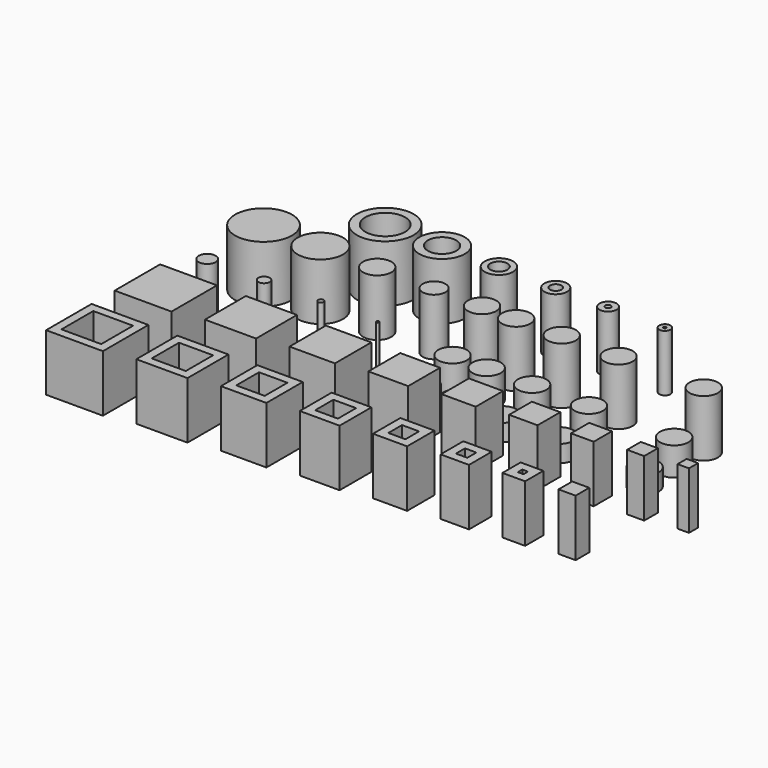
from build123d import *

# Parameters (mm, degrees)
F0_R      = 5
F1_DEPTH  = 10
F0_R_2    = 4
F0_R_3    = 2.5
F0_R_4    = 2
F0_R_5    = 1.5
F0_R_6    = 1
F0_R_7    = 0.5
F0_R_8    = 0.25
F2_R      = 2.5
F3_DEPTH  = 10
F4_R      = 2.5
F5_DEPTH  = 5
F6_R      = 2.5
F7_DEPTH  = 3
F8_W      = 10
F8_H      = 10
F9_DEPTH  = 10
F8_W_2    = 9
F8_H_2    = 9
F8_W_3    = 8
F8_H_3    = 8
F8_W_4    = 7
F8_H_4    = 7
F8_W_5    = 6
F8_H_5    = 6
F8_W_6    = 5
F8_H_6    = 5
F8_W_7    = 4
F8_H_7    = 4
F8_W_8    = 3
F8_H_8    = 3
F8_W_9    = 2
F8_H_9    = 2
F10_W     = 9
F10_H     = 9
F11_DEPTH = 10
F10_W_2   = 10
F10_H_2   = 10
F10_W_3   = 4
F10_H_3   = 4
F10_W_4   = 6
F10_H_4   = 6
F10_W_5   = 7
F10_H_5   = 7
F10_W_6   = 8
F10_H_6   = 8
F10_W_7   = 5
F10_H_7   = 5
F10_W_8   = 3
F10_H_8   = 3
F12_W     = 6
F12_H     = 6
F12_W_2   = 4
F12_H_2   = 4
F12_W_3   = 3
F12_H_3   = 3
F12_W_4   = 2
F12_H_4   = 2
F12_W_5   = 1
F12_H_5   = 1
F12_W_6   = 7
F12_H_6   = 7
F12_W_7   = 5
F12_H_7   = 5
F13_DEPTH = 10
F14_R     = 5
F15_DEPTH = 10
F14_R_2   = 4
F14_R_3   = 2.5
F14_R_4   = 2
F14_R_5   = 1.5
F14_R_6   = 1
F16_R     = 1.5
F16_R_2   = 1
F16_R_3   = 0.5
F16_R_4   = 0.25
F16_R_5   = 2.5
F16_R_6   = 3.5
F17_DEPTH = 10


with BuildPart() as f1:
    # F0 (on Top) → F1 (new body)
    with BuildSketch(Plane.XY):
        with Locations((-38.4500361979, 17.9998930544)):
            Circle(F0_R)
    extrude(amount=F1_DEPTH)


with BuildPart() as f1b:
    # F0 (on Top) → F1, piece 2 (new body)
    with BuildSketch(Plane.XY):
        with Locations((-28.4500361979, 17.9998930544)):
            Circle(F0_R_2)
    extrude(amount=F1_DEPTH)


with BuildPart() as f1c:
    # F0 (on Top) → F1, piece 3 (new body)
    with BuildSketch(Plane.XY):
        with Locations((-18.4500361979, 17.9998930544)):
            Circle(F0_R_3)
    extrude(amount=F1_DEPTH)


with BuildPart() as f1d:
    # F0 (on Top) → F1, piece 4 (new body)
    with BuildSketch(Plane.XY):
        with Locations((-8.4500361979, 17.9998930544)):
            Circle(F0_R_4)
    extrude(amount=F1_DEPTH)


with BuildPart() as f1e:
    # F0 (on Top) → F1, piece 5 (new body)
    with BuildSketch(Plane.XY):
        with Locations((-38.1977682621, 5.3023987784)):
            Circle(F0_R_5)
    extrude(amount=F1_DEPTH)


with BuildPart() as f1f:
    # F0 (on Top) → F1, piece 6 (new body)
    with BuildSketch(Plane.XY):
        with Locations((-28.1977682621, 5.3023987784)):
            Circle(F0_R_6)
    extrude(amount=F1_DEPTH)


with BuildPart() as f1g:
    # F0 (on Top) → F1, piece 7 (new body)
    with BuildSketch(Plane.XY):
        with Locations((-18.1977682621, 5.3023987784)):
            Circle(F0_R_7)
    extrude(amount=F1_DEPTH)


with BuildPart() as f1h:
    # F0 (on Top) → F1, piece 8 (new body)
    with BuildSketch(Plane.XY):
        with Locations((-8.1977682621, 5.3023987784)):
            Circle(F0_R_8)
    extrude(amount=F1_DEPTH)


with BuildPart() as f3:
    # F2 (on Top) → F3 (new body)
    with BuildSketch(Plane.XY):
        with Locations((0, 17.9998878)):
            Circle(F2_R)
    extrude(amount=F3_DEPTH)


with BuildPart() as f3b:
    # F2 (on Top) → F3, piece 2 (new body)
    with BuildSketch(Plane.XY):
        with Locations((6, 17.9998878)):
            Circle(F2_R)
    extrude(amount=F3_DEPTH)


with BuildPart() as f3c:
    # F2 (on Top) → F3, piece 3 (new body)
    with BuildSketch(Plane.XY):
        with Locations((14, 17.9998878)):
            Circle(F2_R)
    extrude(amount=F3_DEPTH)


with BuildPart() as f3d:
    # F2 (on Top) → F3, piece 4 (new body)
    with BuildSketch(Plane.XY):
        with Locations((24, 17.9998878)):
            Circle(F2_R)
    extrude(amount=F3_DEPTH)


with BuildPart() as f3e:
    # F2 (on Top) → F3, piece 5 (new body)
    with BuildSketch(Plane.XY):
        with Locations((39, 17.9998878)):
            Circle(F2_R)
    extrude(amount=F3_DEPTH)


with BuildPart() as f5:
    # F4 (on Top) → F5 (new body)
    with BuildSketch(Plane.XY):
        with Locations((6, 11.4998878)):
            Circle(F4_R)
    extrude(amount=F5_DEPTH)


with BuildPart() as f5b:
    # F4 (on Top) → F5, piece 2 (new body)
    with BuildSketch(Plane.XY):
        with Locations((0, 11.4998878)):
            Circle(F4_R)
    extrude(amount=F5_DEPTH)


with BuildPart() as f5c:
    # F4 (on Top) → F5, piece 3 (new body)
    with BuildSketch(Plane.XY):
        with Locations((39, 11.4998878)):
            Circle(F4_R)
    extrude(amount=F5_DEPTH)


with BuildPart() as f5d:
    # F4 (on Top) → F5, piece 4 (new body)
    with BuildSketch(Plane.XY):
        with Locations((24, 11.4998878)):
            Circle(F4_R)
    extrude(amount=F5_DEPTH)


with BuildPart() as f5e:
    # F4 (on Top) → F5, piece 5 (new body)
    with BuildSketch(Plane.XY):
        with Locations((14, 11.4998878)):
            Circle(F4_R)
    extrude(amount=F5_DEPTH)


with BuildPart() as f7:
    # F6 (on Top) → F7 (new body)
    with BuildSketch(Plane.XY):
        with Locations((6, 4.9998878)):
            Circle(F6_R)
    extrude(amount=F7_DEPTH)


with BuildPart() as f7b:
    # F6 (on Top) → F7, piece 2 (new body)
    with BuildSketch(Plane.XY):
        with Locations((0, 4.9998878)):
            Circle(F6_R)
    extrude(amount=F7_DEPTH)


with BuildPart() as f7c:
    # F6 (on Top) → F7, piece 3 (new body)
    with BuildSketch(Plane.XY):
        with Locations((39, 4.9998878)):
            Circle(F6_R)
    extrude(amount=F7_DEPTH)


with BuildPart() as f7d:
    # F6 (on Top) → F7, piece 4 (new body)
    with BuildSketch(Plane.XY):
        with Locations((24, 4.9998878)):
            Circle(F6_R)
    extrude(amount=F7_DEPTH)


with BuildPart() as f7e:
    # F6 (on Top) → F7, piece 5 (new body)
    with BuildSketch(Plane.XY):
        with Locations((14, 4.9998878)):
            Circle(F6_R)
    extrude(amount=F7_DEPTH)


with BuildPart() as f9:
    # F8 (on Top) → F9 (new body)
    with BuildSketch(Plane.XY):
        with Locations((-37.24, -5)):
            Rectangle(F8_W, F8_H)
    extrude(amount=F9_DEPTH)


with BuildPart() as f9b:
    # F8 (on Top) → F9, piece 2 (new body)
    with BuildSketch(Plane.XY):
        with Locations((-22.66, -4.5)):
            Rectangle(F8_W_2, F8_H_2)
    extrude(amount=F9_DEPTH)


with BuildPart() as f9c:
    # F8 (on Top) → F9, piece 3 (new body)
    with BuildSketch(Plane.XY):
        with Locations((-9.08, -4)):
            Rectangle(F8_W_3, F8_H_3)
    extrude(amount=F9_DEPTH)


with BuildPart() as f9d:
    # F8 (on Top) → F9, piece 4 (new body)
    with BuildSketch(Plane.XY):
        with Locations((3.5, -3.5)):
            Rectangle(F8_W_4, F8_H_4)
    extrude(amount=F9_DEPTH)


with BuildPart() as f9e:
    # F8 (on Top) → F9, piece 5 (new body)
    with BuildSketch(Plane.XY):
        with Locations((15.08, -3)):
            Rectangle(F8_W_5, F8_H_5)
    extrude(amount=F9_DEPTH)


with BuildPart() as f9f:
    # F8 (on Top) → F9, piece 6 (new body)
    with BuildSketch(Plane.XY):
        with Locations((25.66, -2.5)):
            Rectangle(F8_W_6, F8_H_6)
    extrude(amount=F9_DEPTH)


with BuildPart() as f9g:
    # F8 (on Top) → F9, piece 7 (new body)
    with BuildSketch(Plane.XY):
        with Locations((35.24, -2)):
            Rectangle(F8_W_7, F8_H_7)
    extrude(amount=F9_DEPTH)


with BuildPart() as f9h:
    # F8 (on Top) → F9, piece 8 (new body)
    with BuildSketch(Plane.XY):
        with Locations((43.82, -1.5)):
            Rectangle(F8_W_8, F8_H_8)
    extrude(amount=F9_DEPTH)


with BuildPart() as f9i:
    # F8 (on Top) → F9, piece 9 (new body)
    with BuildSketch(Plane.XY):
        with Locations((51.4, -1)):
            Rectangle(F8_W_9, F8_H_9)
    extrude(amount=F9_DEPTH)


with BuildPart() as f11:
    # F10 (on Top) → F11 (new body)
    with BuildSketch(Plane.XY):
        with Locations((-22.66, -19.58)):
            Rectangle(F10_W, F10_H)
    extrude(amount=F11_DEPTH)


with BuildPart() as f11b:
    # F10 (on Top) → F11, piece 2 (new body)
    with BuildSketch(Plane.XY):
        with Locations((-37.24, -20.08)):
            Rectangle(F10_W_2, F10_H_2)
    extrude(amount=F11_DEPTH)


with BuildPart() as f11c:
    # F10 (on Top) → F11, piece 3 (new body)
    with BuildSketch(Plane.XY):
        with Locations((35.24, -17.08)):
            Rectangle(F10_W_3, F10_H_3)
    extrude(amount=F11_DEPTH)


with BuildPart() as f11d:
    # F10 (on Top) → F11, piece 4 (new body)
    with BuildSketch(Plane.XY):
        with Locations((15.08, -18.08)):
            Rectangle(F10_W_4, F10_H_4)
    extrude(amount=F11_DEPTH)


with BuildPart() as f11e:
    # F10 (on Top) → F11, piece 5 (new body)
    with BuildSketch(Plane.XY):
        with Locations((3.5, -18.58)):
            Rectangle(F10_W_5, F10_H_5)
    extrude(amount=F11_DEPTH)


with BuildPart() as f11f:
    # F10 (on Top) → F11, piece 6 (new body)
    with BuildSketch(Plane.XY):
        with Locations((-9.08, -19.08)):
            Rectangle(F10_W_6, F10_H_6)
    extrude(amount=F11_DEPTH)


with BuildPart() as f11g:
    # F10 (on Top) → F11, piece 7 (new body)
    with BuildSketch(Plane.XY):
        with Locations((25.66, -17.58)):
            Rectangle(F10_W_7, F10_H_7)
    extrude(amount=F11_DEPTH)


with BuildPart() as f11h:
    # F10 (on Top) → F11, piece 8 (new body)
    with BuildSketch(Plane.XY):
        with Locations((43.82, -16.58)):
            Rectangle(F10_W_8, F10_H_8)
    extrude(amount=F11_DEPTH)


with BuildPart() as f13_tool:
    # F12 (on face) → F13 (new body)
    with BuildSketch(Plane.XY.offset(10)):
        with Locations((-22.66, -19.58)):
            Rectangle(F12_W, F12_H)
        with Locations((3.5, -18.58)):
            Rectangle(F12_W_2, F12_H_2)
        with Locations((15.08, -18.08)):
            Rectangle(F12_W_3, F12_H_3)
        with Locations((25.66, -17.58)):
            Rectangle(F12_W_4, F12_H_4)
        with Locations((35.24, -17.08)):
            Rectangle(F12_W_5, F12_H_5)
        with Locations((-37.24, -20.08)):
            Rectangle(F12_W_6, F12_H_6)
        with Locations((-9.08, -19.08)):
            Rectangle(F12_W_7, F12_H_7)
    extrude(amount=-F13_DEPTH)


with BuildPart() as f11_1:
    add(f11.part)

    # F13: cut by f13_tool
    add(f13_tool.part, mode=Mode.SUBTRACT)


with BuildPart() as f11b_1:
    add(f11b.part)

    # F13: cut by f13_tool
    add(f13_tool.part, mode=Mode.SUBTRACT)


with BuildPart() as f11c_1:
    add(f11c.part)

    # F13: cut by f13_tool
    add(f13_tool.part, mode=Mode.SUBTRACT)


with BuildPart() as f11d_1:
    add(f11d.part)

    # F13: cut by f13_tool
    add(f13_tool.part, mode=Mode.SUBTRACT)


with BuildPart() as f11e_1:
    add(f11e.part)

    # F13: cut by f13_tool
    add(f13_tool.part, mode=Mode.SUBTRACT)


with BuildPart() as f11f_1:
    add(f11f.part)

    # F13: cut by f13_tool
    add(f13_tool.part, mode=Mode.SUBTRACT)


with BuildPart() as f11g_1:
    add(f11g.part)

    # F13: cut by f13_tool
    add(f13_tool.part, mode=Mode.SUBTRACT)


with BuildPart() as f15:
    # F14 (on Top) → F15 (new body)
    with BuildSketch(Plane.XY):
        with Locations((-25.4860028408, 28.5561004021)):
            Circle(F14_R)
    extrude(amount=F15_DEPTH)


with BuildPart() as f15b:
    # F14 (on Top) → F15, piece 2 (new body)
    with BuildSketch(Plane.XY):
        with Locations((-15.4860028408, 28.5561004021)):
            Circle(F14_R_2)
    extrude(amount=F15_DEPTH)


with BuildPart() as f15c:
    # F14 (on Top) → F15, piece 3 (new body)
    with BuildSketch(Plane.XY):
        with Locations((-5.4860028408, 28.5561004021)):
            Circle(F14_R_3)
    extrude(amount=F15_DEPTH)


with BuildPart() as f15d:
    # F14 (on Top) → F15, piece 4 (new body)
    with BuildSketch(Plane.XY):
        with Locations((4.5139971592, 28.5561004021)):
            Circle(F14_R_4)
    extrude(amount=F15_DEPTH)


with BuildPart() as f15e:
    # F14 (on Top) → F15, piece 5 (new body)
    with BuildSketch(Plane.XY):
        with Locations((13.6536988027, 28.6366573236)):
            Circle(F14_R_5)
    extrude(amount=F15_DEPTH)


with BuildPart() as f15f:
    # F14 (on Top) → F15, piece 6 (new body)
    with BuildSketch(Plane.XY):
        with Locations((23.6536988027, 28.6366573236)):
            Circle(F14_R_6)
    extrude(amount=F15_DEPTH)


with BuildPart() as f17_tool:
    # F16 (on face) → F17 (new body)
    with BuildSketch(Plane.XY.offset(10)):
        with Locations((-5.4860028408, 28.5561004021)):
            Circle(F16_R)
        with Locations((4.5139971592, 28.5561004021)):
            Circle(F16_R_2)
        with Locations((13.6536988027, 28.6366573236)):
            Circle(F16_R_3)
        with Locations((23.6536988027, 28.6366573236)):
            Circle(F16_R_4)
        with Locations((-15.4860028408, 28.5561004021)):
            Circle(F16_R_5)
        with Locations((-25.4860028408, 28.5561004021)):
            Circle(F16_R_6)
    extrude(amount=-F17_DEPTH)


with BuildPart() as f15_1:
    add(f15.part)

    # F17: cut by f17_tool
    add(f17_tool.part, mode=Mode.SUBTRACT)


with BuildPart() as f15b_1:
    add(f15b.part)

    # F17: cut by f17_tool
    add(f17_tool.part, mode=Mode.SUBTRACT)


with BuildPart() as f15c_1:
    add(f15c.part)

    # F17: cut by f17_tool
    add(f17_tool.part, mode=Mode.SUBTRACT)


with BuildPart() as f15d_1:
    add(f15d.part)

    # F17: cut by f17_tool
    add(f17_tool.part, mode=Mode.SUBTRACT)


with BuildPart() as f15e_1:
    add(f15e.part)

    # F17: cut by f17_tool
    add(f17_tool.part, mode=Mode.SUBTRACT)


with BuildPart() as f15f_1:
    add(f15f.part)

    # F17: cut by f17_tool
    add(f17_tool.part, mode=Mode.SUBTRACT)


solid = Compound([f1.part, f1b.part, f1c.part, f1d.part, f1e.part, f1f.part, f1g.part, f1h.part, f3.part, f3b.part, f3c.part, f3d.part, f3e.part, f5.part, f5b.part, f5c.part, f5d.part, f5e.part, f7.part, f7b.part, f7c.part, f7d.part, f7e.part, f9.part, f9b.part, f9c.part, f9d.part, f9e.part, f9f.part, f9g.part, f9h.part, f9i.part, f11h.part, f11_1.part, f11b_1.part, f11c_1.part, f11d_1.part, f11e_1.part, f11f_1.part, f11g_1.part, f15_1.part, f15b_1.part, f15c_1.part, f15d_1.part, f15e_1.part, f15f_1.part])
